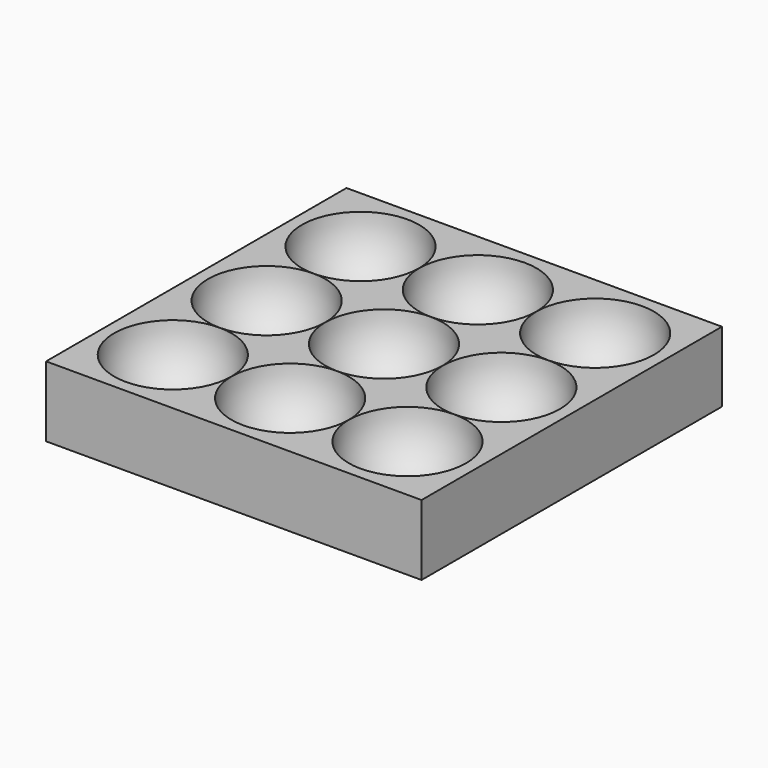
from build123d import *

# Parameters (mm, degrees)
BOX_W     = 32
BOX_H     = 32
BOX_DEPTH = 6


with BuildPart() as esfera003:
    # Sphere003 → Sphere003 (revolve)
    with BuildSketch(Plane(origin=(10, 0, 0), x_dir=(1, 0, 0), z_dir=(0, -1, 0))):
        with BuildLine():
            ThreePointArc((0, -5), (5, 0), (0, 5))
            Line((0, 5), (0, -5))
        make_face()
    revolve(axis=Axis((10, 0, 0), (0, 0, 1)))


with BuildPart() as esfera002:
    # Sphere002 → Sphere002 (revolve)
    with BuildSketch(Plane.XZ.offset(-20)):
        with BuildLine():
            ThreePointArc((0, -5), (5, 0), (0, 5))
            Line((0, 5), (0, -5))
        make_face()
    revolve(axis=Axis((0, 20, 0), (0, 0, 1)))


with BuildPart() as esfera:
    # Sphere → Sphere (revolve)
    with BuildSketch(Plane.XZ):
        with BuildLine():
            ThreePointArc((0, -5), (5, 0), (0, 5))
            Line((0, 5), (0, -5))
        make_face()
    revolve(axis=Axis((0, 0, 0), (0, 0, 1)))


with BuildPart() as esfera001:
    # Sphere001 → Sphere001 (revolve)
    with BuildSketch(Plane.XZ.offset(-10)):
        with BuildLine():
            ThreePointArc((0, -5), (5, 0), (0, 5))
            Line((0, 5), (0, -5))
        make_face()
    revolve(axis=Axis((0, 10, 0), (0, 0, 1)))


with BuildPart() as esfera004:
    # Sphere004 → Sphere004 (revolve)
    with BuildSketch(Plane(origin=(10, 10, 0), x_dir=(1, 0, 0), z_dir=(0, -1, 0))):
        with BuildLine():
            ThreePointArc((0, -5), (5, 0), (0, 5))
            Line((0, 5), (0, -5))
        make_face()
    revolve(axis=Axis((10, 10, 0), (0, 0, 1)))


with BuildPart() as esfera007:
    # Sphere007 → Sphere007 (revolve)
    with BuildSketch(Plane(origin=(20, 10, 0), x_dir=(1, 0, 0), z_dir=(0, -1, 0))):
        with BuildLine():
            ThreePointArc((0, -5), (5, 0), (0, 5))
            Line((0, 5), (0, -5))
        make_face()
    revolve(axis=Axis((20, 10, 0), (0, 0, 1)))


with BuildPart() as esfera005:
    # Sphere005 → Sphere005 (revolve)
    with BuildSketch(Plane(origin=(10, 20, 0), x_dir=(1, 0, 0), z_dir=(0, -1, 0))):
        with BuildLine():
            ThreePointArc((0, -5), (5, 0), (0, 5))
            Line((0, 5), (0, -5))
        make_face()
    revolve(axis=Axis((10, 20, 0), (0, 0, 1)))


with BuildPart() as esfera006:
    # Sphere006 → Sphere006 (revolve)
    with BuildSketch(Plane(origin=(20, 0, 0), x_dir=(1, 0, 0), z_dir=(0, -1, 0))):
        with BuildLine():
            ThreePointArc((0, -5), (5, 0), (0, 5))
            Line((0, 5), (0, -5))
        make_face()
    revolve(axis=Axis((20, 0, 0), (0, 0, 1)))


with BuildPart() as fusion:
    # Sphere008 → Sphere008 (revolve)
    with BuildSketch(Plane(origin=(20, 20, 0), x_dir=(1, 0, 0), z_dir=(0, -1, 0))):
        with BuildLine():
            ThreePointArc((0, -5), (5, 0), (0, 5))
            Line((0, 5), (0, -5))
        make_face()
    revolve(axis=Axis((20, 20, 0), (0, 0, 1)))

    # Fusion: union Esfera003, Esfera002, Esfera, Esfera001, Esfera004, Esfera007, Esfera005, Esfera006
    add(esfera003.part)
    add(esfera002.part)
    add(esfera.part)
    add(esfera001.part)
    add(esfera004.part)
    add(esfera007.part)
    add(esfera005.part)
    add(esfera006.part)


with BuildPart() as fusion_1:
    # Fusion placement: moved
    add(fusion.part.moved(Location((6, 6, 6))))


with BuildPart() as cut:
    # Box → Box (new body)
    with BuildSketch(Plane.XY):
        with Locations((16, 16)):
            Rectangle(BOX_W, BOX_H)
    extrude(amount=BOX_DEPTH)

    # Cut: cut Fusion
    add(fusion_1.part, mode=Mode.SUBTRACT)


solid = cut.part
